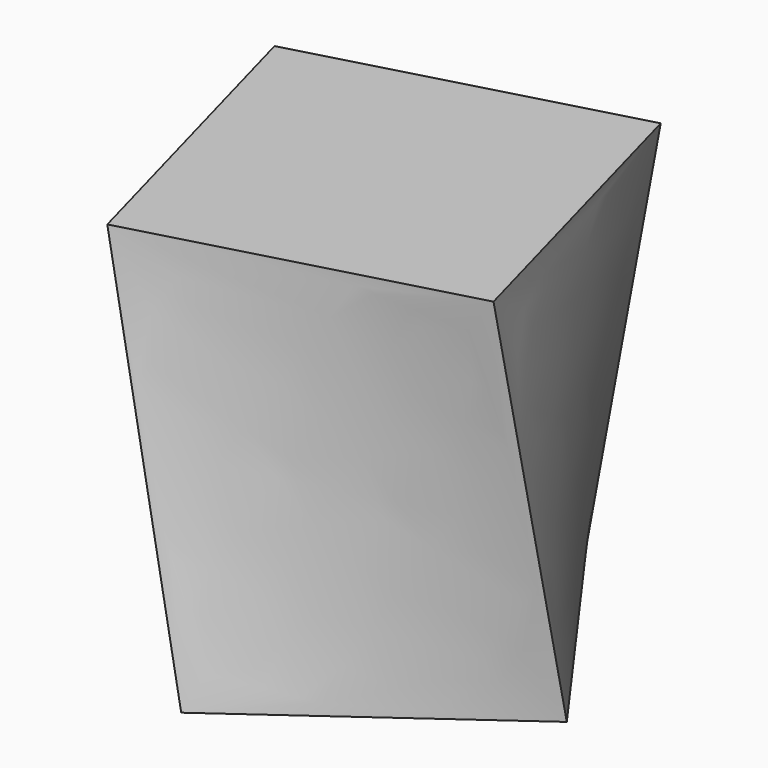
from build123d import *


with BuildPart() as f3:
    # F0 (on Top) → F3 section 0
    with BuildSketch(Plane.XY):
        Polygon((13.793747, 84.146887), (-84.146887, 13.793747), (-13.793747, -84.146887), (84.146887, -13.793747), align=None)
    # F2 (on offset) → F3 section 1
    with BuildSketch(Plane.XY.offset(160)):
        Polygon((-80.700673, 46.120729), (-46.120729, -80.700673), (80.700673, -46.120729), (46.120729, 80.700673), align=None)
    loft()


solid = f3.part
